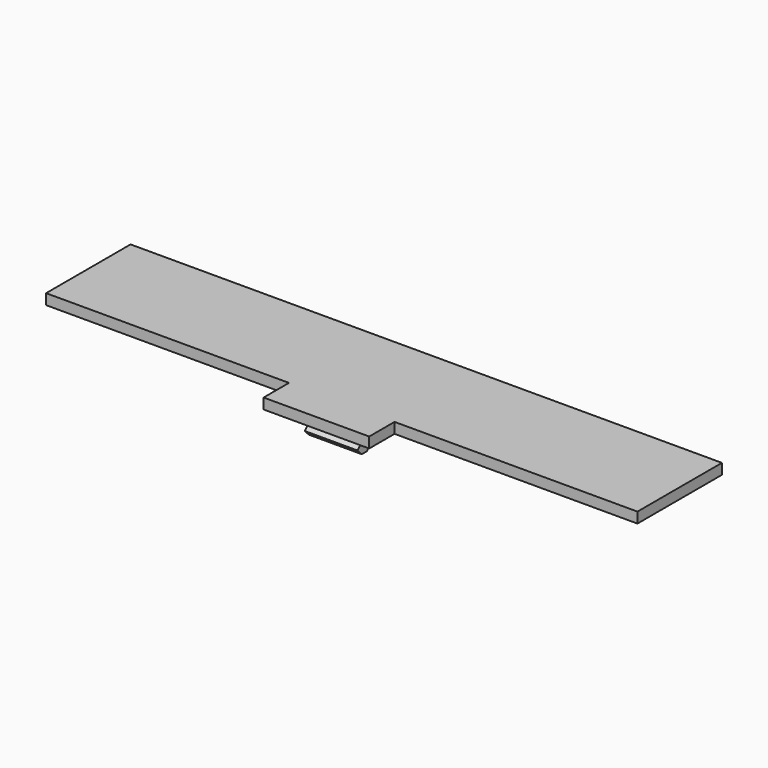
from build123d import *

# Parameters (mm, degrees)
BOX082_W                  = 56
BOX082_H                  = 10
BOX082_DEPTH              = 1
BOX081_W                  = 10
BOX081_H                  = 10
BOX081_DEPTH              = 1
BOX085_W                  = 5
BOX085_H                  = 1
BOX085_DEPTH              = 1
CHAMFER013_SIZE           = 0.49
BOX086_W                  = 5
BOX086_H                  = 1
BOX086_DEPTH              = 2.2
CHAMFER014_SIZE           = 0.9
FUSION078_PLACEMENT_ANGLE = 180
BOX088_W                  = 5
BOX088_H                  = 1
BOX088_DEPTH              = 1
CHAMFER015_SIZE           = 0.49
BOX087_W                  = 5
BOX087_H                  = 1
BOX087_DEPTH              = 2.2
CHAMFER016_SIZE           = 0.9
FUSION079_PLACEMENT_ANGLE = 180
BOX083_W                  = 5
BOX083_H                  = 1
BOX083_DEPTH              = 1
CHAMFER011_SIZE           = 0.49
BOX084_W                  = 5
BOX084_H                  = 1
BOX084_DEPTH              = 2.2
CHAMFER012_SIZE           = 0.9


with BuildPart() as obj1:
    # Box082 → Box082 (new body)
    with BuildSketch(Plane(origin=(-38, 19.5, 14.75), x_dir=(1, 0, 0), z_dir=(0, 0, 1))):
        with Locations((28, 5)):
            Rectangle(BOX082_W, BOX082_H)
    extrude(amount=BOX082_DEPTH)


with BuildPart() as obj2:
    # Box081 → Box081 (new body)
    with BuildSketch(Plane(origin=(-15, 16.5, 14.75), x_dir=(1, 0, 0), z_dir=(0, 0, 1))):
        with Locations((5, 5)):
            Rectangle(BOX081_W, BOX081_H)
    extrude(amount=BOX081_DEPTH)

    # Fusion077: union obj1
    add(obj1.part)


with BuildPart() as chamfer013:
    # Box085 → Box085 (new body)
    with BuildSketch(Plane(origin=(-12.5, 18.25, 12.75), x_dir=(1, 0, 0), z_dir=(0, 0, 1))):
        with Locations((2.5, 0.5)):
            Rectangle(BOX085_W, BOX085_H)
    extrude(amount=BOX085_DEPTH)

    # Chamfer013
    chamfer013_edges = [chamfer013.edges().sort_by_distance(p)[0] for p in [
        (-10, 18.25, 12.75),
        (-10, 18.25, 13.75),
    ]]
    chamfer(chamfer013_edges, length=CHAMFER013_SIZE)


with BuildPart() as chamfer013_1:
    # Chamfer013 placement: moved
    add(chamfer013.part.moved(Location((0, 0, -0.2))))


with BuildPart() as obj3:
    # Box086 → Box086 (new body)
    with BuildSketch(Plane(origin=(-12.5, 19.25, 12.55), x_dir=(1, 0, 0), z_dir=(0, 0, 1))):
        with Locations((2.5, 0.5)):
            Rectangle(BOX086_W, BOX086_H)
    extrude(amount=BOX086_DEPTH)

    # Chamfer014
    chamfer014_edges = [obj3.edges().sort_by_distance(p)[0] for p in [
        (-10, 20.25, 12.55),
    ]]
    chamfer(chamfer014_edges, length=CHAMFER014_SIZE)

    # Fusion078: union Chamfer013
    add(chamfer013_1.part)


with BuildPart() as obj3_1:
    # Fusion078 placement: moved
    add(obj3.part.moved(Location((1, 47, 0))).rotate(Axis((1, 47, 0), (0, 0, 1)), FUSION078_PLACEMENT_ANGLE))


with BuildPart() as chamfer015:
    # Box088 → Box088 (new body)
    with BuildSketch(Plane(origin=(-12.5, 18.25, 12.75), x_dir=(1, 0, 0), z_dir=(0, 0, 1))):
        with Locations((2.5, 0.5)):
            Rectangle(BOX088_W, BOX088_H)
    extrude(amount=BOX088_DEPTH)

    # Chamfer015
    chamfer015_edges = [chamfer015.edges().sort_by_distance(p)[0] for p in [
        (-10, 18.25, 12.75),
        (-10, 18.25, 13.75),
    ]]
    chamfer(chamfer015_edges, length=CHAMFER015_SIZE)


with BuildPart() as chamfer015_1:
    # Chamfer015 placement: moved
    add(chamfer015.part.moved(Location((0, 0, -0.2))))


with BuildPart() as obj4:
    # Box087 → Box087 (new body)
    with BuildSketch(Plane(origin=(-12.5, 19.25, 12.55), x_dir=(1, 0, 0), z_dir=(0, 0, 1))):
        with Locations((2.5, 0.5)):
            Rectangle(BOX087_W, BOX087_H)
    extrude(amount=BOX087_DEPTH)

    # Chamfer016
    chamfer016_edges = [obj4.edges().sort_by_distance(p)[0] for p in [
        (-10, 20.25, 12.55),
    ]]
    chamfer(chamfer016_edges, length=CHAMFER016_SIZE)

    # Fusion079: union Chamfer015
    add(chamfer015_1.part)


with BuildPart() as obj4_1:
    # Fusion079 placement: moved
    add(obj4.part.moved(Location((-42, 47, 0))).rotate(Axis((-42, 47, 0), (0, 0, 1)), FUSION079_PLACEMENT_ANGLE))


with BuildPart() as chamfer011:
    # Box083 → Box083 (new body)
    with BuildSketch(Plane(origin=(-12.5, 18.25, 12.75), x_dir=(1, 0, 0), z_dir=(0, 0, 1))):
        with Locations((2.5, 0.5)):
            Rectangle(BOX083_W, BOX083_H)
    extrude(amount=BOX083_DEPTH)

    # Chamfer011
    chamfer011_edges = [chamfer011.edges().sort_by_distance(p)[0] for p in [
        (-10, 18.25, 12.75),
        (-10, 18.25, 13.75),
    ]]
    chamfer(chamfer011_edges, length=CHAMFER011_SIZE)


with BuildPart() as chamfer011_1:
    # Chamfer011 placement: moved
    add(chamfer011.part.moved(Location((0, 0, -0.2))))


with BuildPart() as abdeckung_gpio:
    # Box084 → Box084 (new body)
    with BuildSketch(Plane(origin=(-12.5, 19.25, 12.55), x_dir=(1, 0, 0), z_dir=(0, 0, 1))):
        with Locations((2.5, 0.5)):
            Rectangle(BOX084_W, BOX084_H)
    extrude(amount=BOX084_DEPTH)

    # Chamfer012
    chamfer012_edges = [abdeckung_gpio.edges().sort_by_distance(p)[0] for p in [
        (-10, 20.25, 12.55),
    ]]
    chamfer(chamfer012_edges, length=CHAMFER012_SIZE)

    # Fusion076: union Chamfer011
    add(chamfer011_1.part)

    # Fusion080: union obj3, obj4
    add(obj3_1.part)
    add(obj4_1.part)

    # Fusion081: union obj2
    add(obj2.part)


solid = abdeckung_gpio.part
